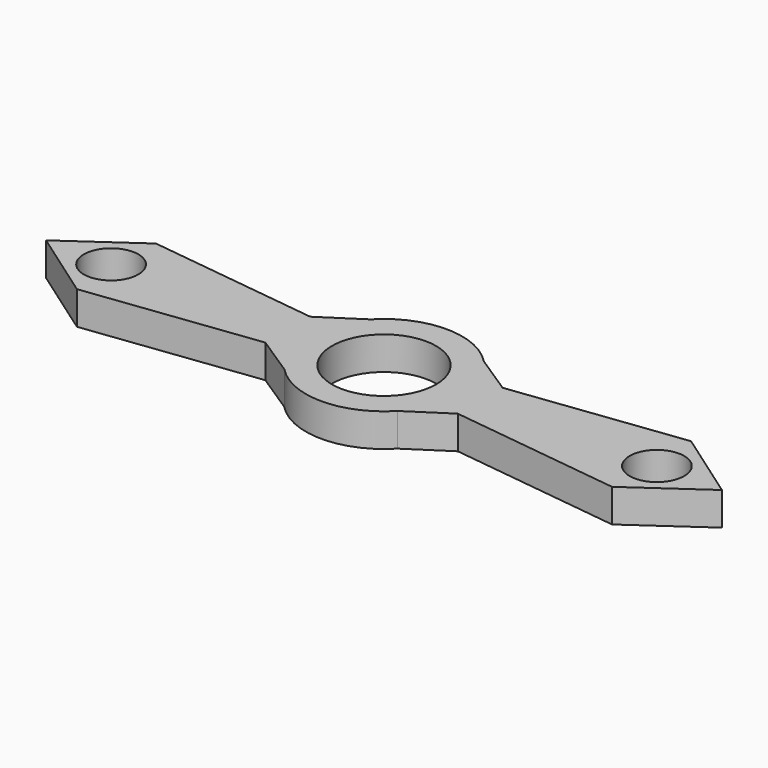
from build123d import *

# Parameters (mm, degrees)
F0_R     = 5.75617
F0_R_2   = 11
F1_DEPTH = 3.5


with BuildPart() as f1:
    # F0 (on Top) → F1 (new body, symmetric)
    with BuildSketch(Plane.XY):
        with BuildLine():
            Line((-20.32, -5.918716), (-11.950013, -11.391984))
            ThreePointArc((-11.950013, -11.391984), (0, -16.51), (11.950013, -11.391984))
            Line((11.950013, -11.391984), (20.32, -5.918716))
            Line((20.32, -5.918716), (56.512848, -10.436366))
            Line((56.512848, -10.436366), (71.374888, 0))
            Line((71.374888, 0), (56.512848, 10.436366))
            Line((56.512848, 10.436366), (20.32, 5.918716))
            Line((20.32, 5.918716), (11.950013, 11.391984))
            ThreePointArc((11.950013, 11.391984), (0, 16.51), (-11.950013, 11.391984))
            Line((-11.950013, 11.391984), (-20.32, 5.918716))
            Line((-20.32, 5.918716), (-56.512848, 10.436366))
            Line((-56.512848, 10.436366), (-71.374888, 0))
            Line((-71.374888, 0), (-56.512848, -10.436366))
            Line((-56.512848, -10.436366), (-20.32, -5.918716))
        make_face()
        with Locations((-57.642891, 0)):
            Circle(F0_R, mode=Mode.SUBTRACT)
        Circle(F0_R_2, mode=Mode.SUBTRACT)
        with Locations((57.642891, 0)):
            Circle(F0_R, mode=Mode.SUBTRACT)
    extrude(amount=F1_DEPTH, both=True)


solid = f1.part
